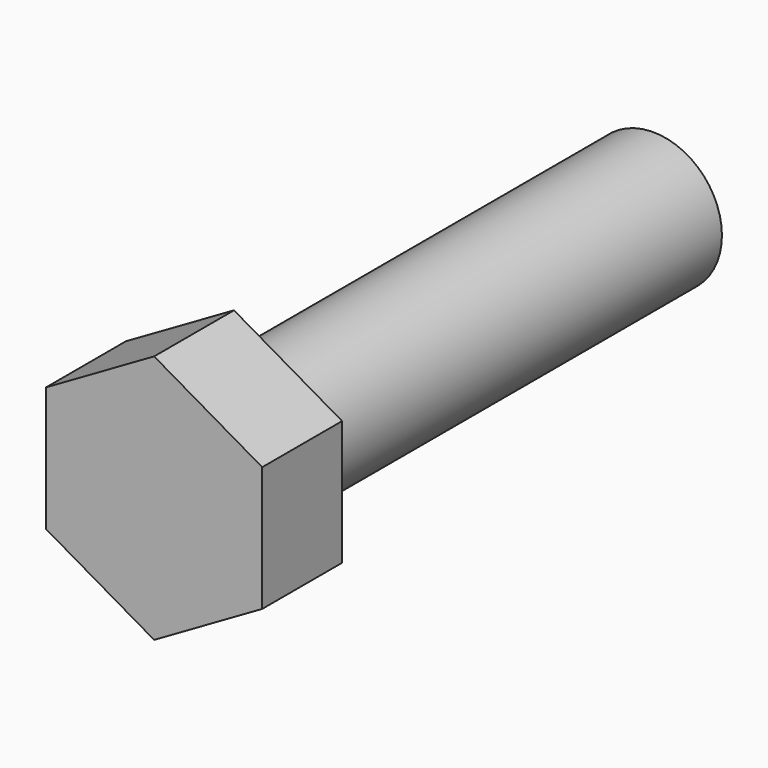
from build123d import *

# Parameters (mm, degrees)
F0_R     = 5.5
F1_DEPTH = 8
F2_R     = 5.5
F3_DEPTH = 50


with BuildPart() as f1:
    # F0 (on Front) → F1 (new body)
    with BuildSketch(Plane.XZ):
        Polygon((8.660254, 5), (0, 10), (-8.660254, 5), (-8.660254, -5), (0, -10), (8.660254, -5), align=None)
        Circle(F0_R, mode=Mode.SUBTRACT)
    extrude(amount=-F1_DEPTH)

    # F2 (on Front) → F3 (join)
    with BuildSketch(Plane.XZ):
        Circle(F2_R)
    extrude(amount=-F3_DEPTH)


solid = f1.part
